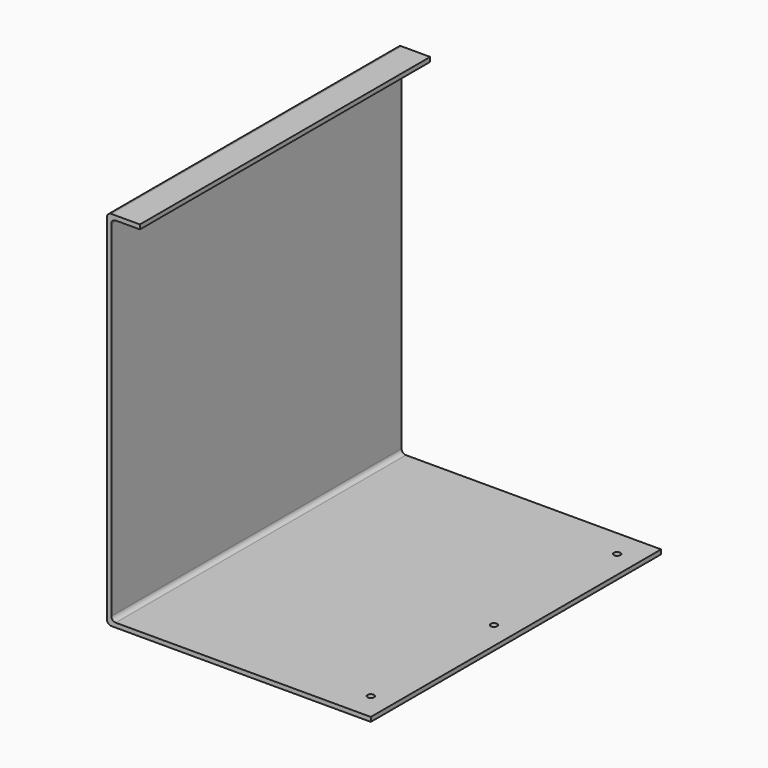
from build123d import *

# Parameters (mm, degrees)
F1_DEPTH      = 165
F2_R          = 3
F3_DEPTH      = 326.001
F3_DEPTH_BACK = 25


with BuildPart() as f1:
    # F0 (on Front) → F1 (new body, symmetric)
    with BuildSketch(Plane.XZ):
        with BuildLine():
            Line((0, 326), (0, 4))
            ThreePointArc((0, 4), (1.171573, 1.171573), (4, 0))
            Line((4, 0), (240, 0))
            Line((240, 0), (240, 4))
            Line((240, 4), (8, 4))
            ThreePointArc((8, 4), (5.171573, 5.171573), (4, 8))
            Line((4, 8), (4, 322))
            ThreePointArc((4, 322), (5.171573, 324.828427), (8, 326))
            Line((8, 326), (30, 326))
            Line((30, 326), (30, 330))
            Line((30, 330), (4, 330))
            ThreePointArc((4, 330), (1.171573, 328.828427), (0, 326))
        make_face()
    extrude(amount=F1_DEPTH, both=True)

    # F2 (on face) → F3 (cut, two sides)
    with BuildSketch(Plane.XY.offset(4)) as f3_sk:
        with Locations((220, 140)):
            Circle(F2_R)
        with Locations((220, 0)):
            Circle(F2_R)
        with Locations((220, -140)):
            Circle(F2_R)
    extrude(amount=F3_DEPTH, mode=Mode.SUBTRACT)
    extrude(f3_sk.sketch, amount=-F3_DEPTH_BACK, mode=Mode.SUBTRACT)


solid = f1.part
